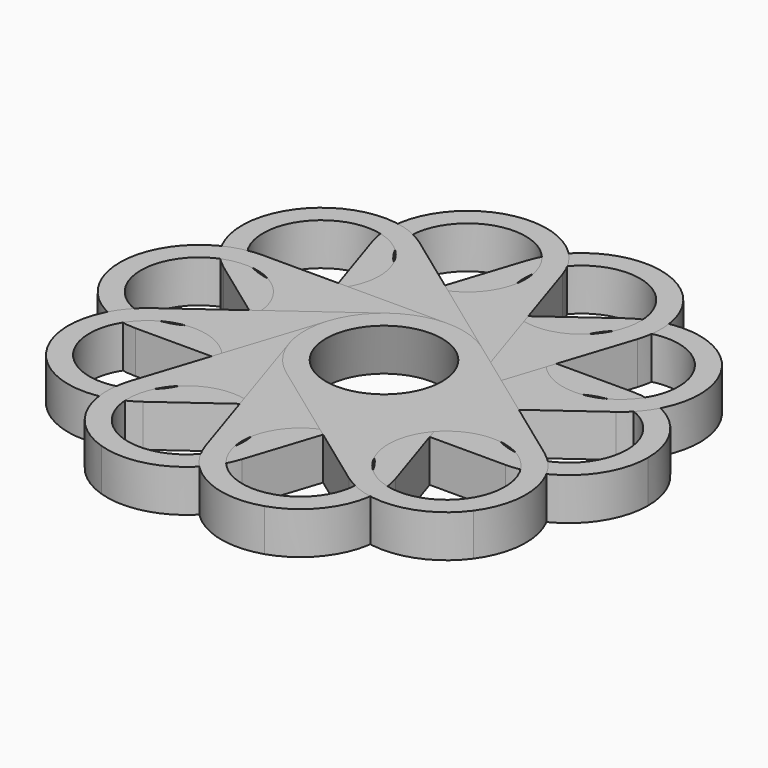
from build123d import *

# Parameters (mm, degrees)
F0_R     = 11
F1_DEPTH = 8
F2_COUNT = 10


with BuildPart() as f1:
    # F0 (on Top) → F1 (new body)
    with BuildSketch(Plane.XY):
        with BuildLine():
            Line((-20.139009, 14.995756), (-20.856268, 14.995668))
            ThreePointArc((-20.856268, 14.995668), (-35.494719, -0.180246), (-20.495802, -15))
            ThreePointArc((-20.495802, -15), (-9.8892, -10.606602), (-5.495802, 0))
            ThreePointArc((-5.495802, 0), (-9.763796, 10.479697), (-20.139009, 14.995756))
        make_face()
        with Locations((-20.495802, 0)):
            Circle(F0_R, mode=Mode.SUBTRACT)
        with BuildLine():
            ThreePointArc((14.502361, 15), (-0.495802, -0.000919), (14.504198, -15))
            ThreePointArc((14.504198, -15), (25.1108, -10.606602), (29.504198, 0))
            ThreePointArc((29.504198, 0), (25.11015, 10.607251), (14.502361, 15))
        make_face()
        with Locations((14.504198, 0)):
            Circle(F0_R, mode=Mode.SUBTRACT)
        with BuildLine():
            ThreePointArc((-5.495802, 0), (-9.8892, -10.606602), (-20.495802, -15))
            Line((-20.495802, -15), (14.504198, -15))
            ThreePointArc((14.504198, -15), (-0.495802, -0.000919), (14.502361, 15))
            Line((14.502361, 15), (-20.139009, 14.995756))
            ThreePointArc((-20.139009, 14.995756), (-9.763796, 10.479697), (-5.495802, 0))
        make_face()
    extrude(amount=F1_DEPTH)


with BuildPart() as f2_1:
    # F2: instance of F1
    add(f1.part.rotate(Axis((-20.495802, 0, 0), (0, 0, 1)), 1 * 360 / F2_COUNT))


with BuildPart() as f2_2:
    # F2: instance of F1
    add(f1.part.rotate(Axis((-20.495802, 0, 0), (0, 0, 1)), 2 * 360 / F2_COUNT))


with BuildPart() as f2_3:
    # F2: instance of F1
    add(f1.part.rotate(Axis((-20.495802, 0, 0), (0, 0, 1)), 3 * 360 / F2_COUNT))


with BuildPart() as f2_4:
    # F2: instance of F1
    add(f1.part.rotate(Axis((-20.495802, 0, 0), (0, 0, 1)), 4 * 360 / F2_COUNT))


with BuildPart() as f2_5:
    # F2: instance of F1
    add(f1.part.rotate(Axis((-20.495802, 0, 0), (0, 0, 1)), 5 * 360 / F2_COUNT))


with BuildPart() as f2_6:
    # F2: instance of F1
    add(f1.part.rotate(Axis((-20.495802, 0, 0), (0, 0, 1)), 6 * 360 / F2_COUNT))


with BuildPart() as f2_7:
    # F2: instance of F1
    add(f1.part.rotate(Axis((-20.495802, 0, 0), (0, 0, 1)), 7 * 360 / F2_COUNT))


with BuildPart() as f2_8:
    # F2: instance of F1
    add(f1.part.rotate(Axis((-20.495802, 0, 0), (0, 0, 1)), 8 * 360 / F2_COUNT))


with BuildPart() as f2_9:
    # F2: instance of F1
    add(f1.part.rotate(Axis((-20.495802, 0, 0), (0, 0, 1)), 9 * 360 / F2_COUNT))


solid = Compound([f1.part, f2_1.part, f2_2.part, f2_3.part, f2_4.part, f2_5.part, f2_6.part, f2_7.part, f2_8.part, f2_9.part])
